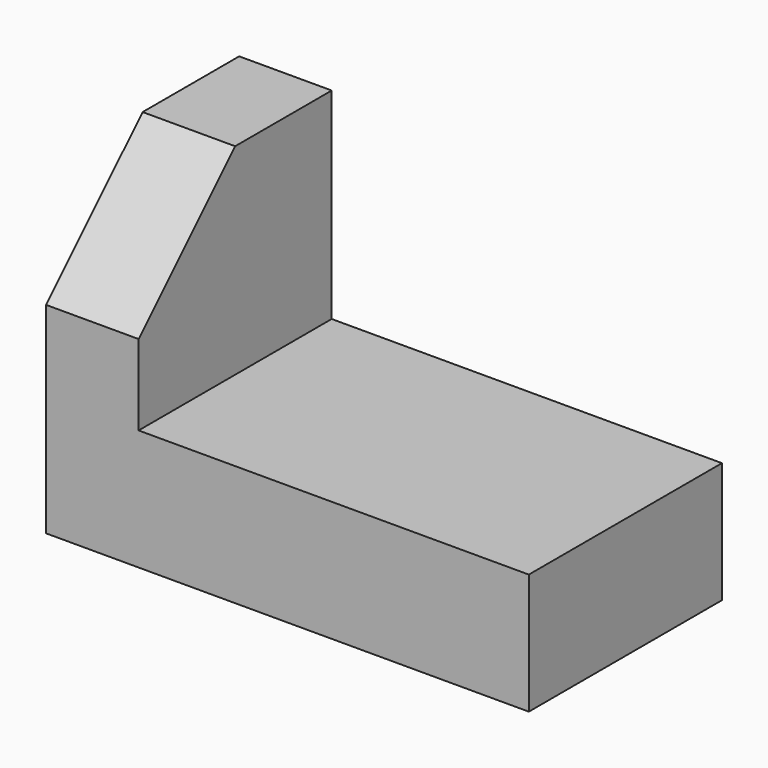
from build123d import *

# Parameters (mm, degrees)
F1_DEPTH = 76.2
F3_DEPTH = 29.211


with BuildPart() as f1:
    # F0 (on Front) → F1 (new body)
    with BuildSketch(Plane.XZ):
        Polygon((0, 101.6), (0, 0), (152.4, 0), (152.4, 38.1), (29.21, 38.1), (29.21, 101.6), align=None)
    extrude(amount=F1_DEPTH)

    # F2 (on face) → F3 (cut, through all)
    with BuildSketch(Plane.YZ.offset(29.21)):
        Polygon((-76.2, 63.5), (-38.1, 101.6), (-76.2, 101.6), align=None)
    extrude(amount=-F3_DEPTH, mode=Mode.SUBTRACT)


solid = f1.part
